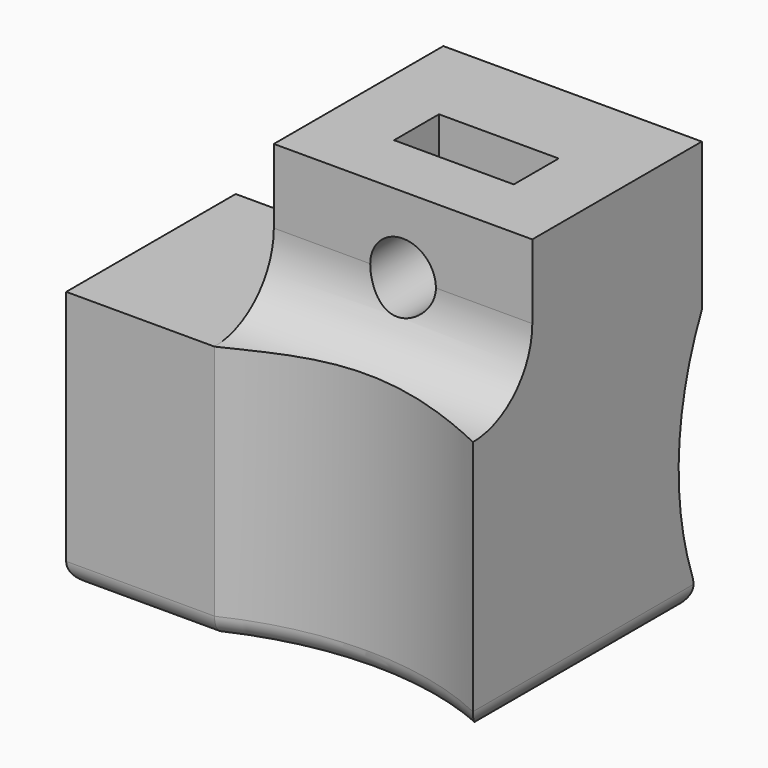
from build123d import *

# Parameters (mm, degrees)
EXTRUDE002_DEPTH                          = 2.65
EXTRUDE002_ONTO_SKETCH008_ROLL_ANGLE      = 90
EXTRUDE001_DEPTH                          = 2.65
EXTRUDE001_ONTO_SKETCH007_ROLL_ANGLE      = 90
EXTRUDE001_ONTO_SKETCH007_PLACEMENT_ANGLE = 180
EXTRUDE_DEPTH                             = 12.2
SKETCH001_W                               = 12.2
SKETCH001_H                               = 10
PAD_DEPTH                                 = 7
PAD001_DEPTH                              = 12.2
POCKET_DEPTH                              = 19.201
POCKET001_DEPTH                           = 19.201
SKETCH005_R                               = 1.55
POCKET002_DEPTH                           = 7
SKETCH006_R                               = 1.55
POCKET003_DEPTH                           = 7
FILLET_R                                  = 1


with BuildPart() as extrude002:
    # Sketch008 as drawn → Extrude002 (new)
    with BuildSketch(Plane.XY):
        Polygon((3.5, 12.437971), (6.325, 14.068985), (6.325, 19.2), (0.675, 19.2), (0.675, 14.068985), align=None)
    extrude(amount=-EXTRUDE002_DEPTH)


with BuildPart() as extrude002_1:
    # Extrude002 onto Sketch008 roll: moved
    add(extrude002.part.rotate(Axis((0, 0, 0), (1, 0, 0)), EXTRUDE002_ONTO_SKETCH008_ROLL_ANGLE))


with BuildPart() as extrude002_2:
    # Extrude002 onto Sketch008 placement: moved
    add(extrude002_1.part.moved(Location((0, -3.25, 0))))


with BuildPart() as extrude002_3:
    # Extrude002 placement: moved
    add(extrude002_2.part.moved(Location((0, 3, 0))))


with BuildPart() as extrude001:
    # Sketch007 as drawn → Extrude001 (new)
    with BuildSketch(Plane.XY):
        Polygon((2.837971, 6.1), (4.468985, 8.925), (9.6, 8.925), (9.6, 3.275), (4.468985, 3.275), align=None)
    extrude(amount=-EXTRUDE001_DEPTH)


with BuildPart() as extrude001_1:
    # Extrude001 onto Sketch007 roll: moved
    add(extrude001.part.rotate(Axis((0, 0, 0), (1, 0, 0)), EXTRUDE001_ONTO_SKETCH007_ROLL_ANGLE))


with BuildPart() as extrude001_2:
    # Extrude001 onto Sketch007 placement: moved
    add(extrude001_1.part.moved(Location((0, 3.25, 0))).rotate(Axis((0, 3.25, 0), (0, 0, 1)), EXTRUDE001_ONTO_SKETCH007_PLACEMENT_ANGLE))


with BuildPart() as extrude001_3:
    # Extrude001 placement: moved
    add(extrude001_2.part.moved(Location((0, -3, 0))))


with BuildPart() as fillet_body:
    # Sketch → Extrude (new body)
    with BuildSketch(Plane.XY):
        with BuildLine():
            Line((-9.6, -6.75), (-9.6, 3.25))
            Line((-6.1, 3.25), (-9.6, 3.25))
            ThreePointArc((-6.1, 3.25), (-3.625126, 4.275126), (-2.6, 6.75))
            Line((-2.6, 6.75), (9.6, 6.75))
            Line((9.6, 6.75), (9.6, -6.75))
            Line((9.6, -6.75), (-9.6, -6.75))
        make_face()
    extrude(amount=EXTRUDE_DEPTH)

    # Sketch001 → Pad (new body)
    with BuildSketch(Plane.XY.offset(12.2)):
        with Locations((3.5, 1.75)):
            Rectangle(SKETCH001_W, SKETCH001_H)
    extrude(amount=PAD_DEPTH)

    # Sketch002 → Pad001 (new body)
    with BuildSketch(Plane.YZ.offset(9.6)):
        with BuildLine():
            ThreePointArc((-6.75, 12.2), (-4.275126, 13.225126), (-3.25, 15.7))
            Line((-3.25, 12.2), (-3.25, 15.7))
            Line((-6.75, 12.2), (-3.25, 12.2))
        make_face()
    extrude(amount=-PAD001_DEPTH)

    # Sketch003 → Pocket (cut, through all)
    with BuildSketch(Plane.YZ.offset(9.6)):
        with BuildLine():
            Line((6.75, 12.2), (6.75, 0))
            ThreePointArc((6.75, 12.2), (5.383677, 6.1), (6.75, 0))
        make_face()
    extrude(amount=-POCKET_DEPTH, mode=Mode.SUBTRACT)

    # Sketch004 → Pocket001 (cut, through all)
    with BuildSketch(Plane(origin=(0, 0, 0), x_dir=(1, 0, 0), z_dir=(0, 0, -1))):
        with BuildLine():
            Line((-2.6, 6.75), (9.6, 6.75))
            ThreePointArc((-2.6, 6.75), (3.5, 5.383677), (9.6, 6.75))
        make_face()
    extrude(amount=-POCKET001_DEPTH, mode=Mode.SUBTRACT)

    # Sketch005 → Pocket002 (cut, symmetric)
    with BuildSketch(Plane.XZ.offset(3.25)):
        with Locations((3.5, 15.7)):
            Circle(SKETCH005_R)
    extrude(amount=POCKET002_DEPTH, both=True, mode=Mode.SUBTRACT)

    # Sketch006 → Pocket003 (cut, symmetric)
    with BuildSketch(Plane(origin=(0, 3.25, 0), x_dir=(-1, 0, 0), z_dir=(0, 1, 0))):
        with Locations((6.1, 6.1)):
            Circle(SKETCH006_R)
    extrude(amount=POCKET003_DEPTH, both=True, mode=Mode.SUBTRACT)

    # Cut: cut Extrude001
    add(extrude001_3.part, mode=Mode.SUBTRACT)

    # Cut001: cut Extrude002
    add(extrude002_3.part, mode=Mode.SUBTRACT)

    # Fillet
    fillet_edges = [fillet_body.edges().sort_by_distance(p)[0] for p in [
        (-7.85, 3.25, 0),
        (-9.6, -1.75, 0),
        (-6.1, -6.75, 0),
        (3.5, -5.383677, 0),
        (9.6, 0, 0),
        (3.5, 6.75, 0),
        (-3.625126, 4.275126, 0),
    ]]
    fillet(fillet_edges, radius=FILLET_R)


solid = fillet_body.part
